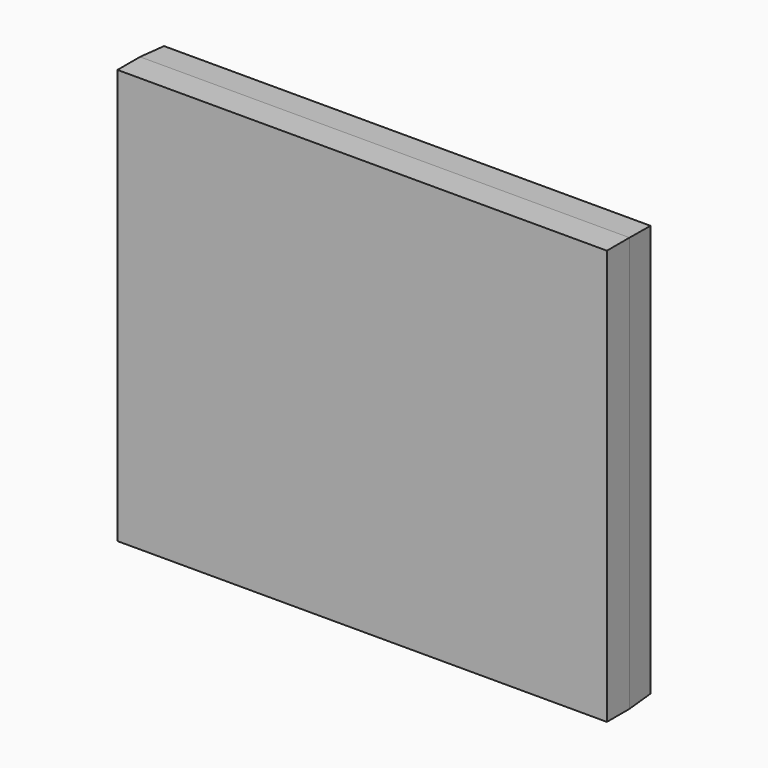
from build123d import *

# Parameters (mm, degrees)
F0_W          = 88.2137492299
F0_H          = 74.7685357928
F1_DEPTH      = 5.08
F1_DEPTH_BACK = 5.08
F1_TAPER_BACK = 3


with BuildPart() as f1:
    # F0 (on Front) → F1 (new body, two sides)
    with BuildSketch(Plane.XZ) as f1_sk:
        with Locations((1.429464668, 1.1932216585)):
            Rectangle(F0_W, F0_H)
    extrude(amount=F1_DEPTH)
    extrude(f1_sk.sketch, amount=-F1_DEPTH_BACK, taper=F1_TAPER_BACK)


solid = f1.part
